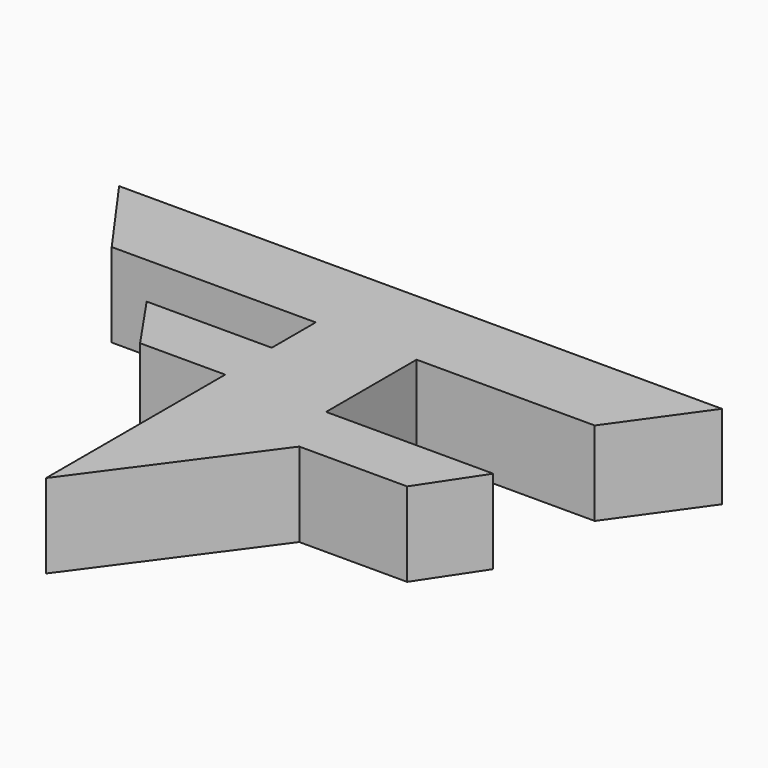
from build123d import *

# Parameters (mm, degrees)
F1_DEPTH = 12.7


with BuildPart() as f1:
    # F0 (on Top) → F1 (new body)
    with BuildSketch(Plane.XY):
        Polygon((48.759662, 54.159728), (-42.306267, 54.159728), (-33.266246, 41.459728), (-2.446738, 41.459728), (-2.446738, 33.161538), (-21.345066, 33.161538), (-15.30465, 24.368381), (-2.446738, 24.368381), (-2.446738, 0), (-2.446738, -9.455727), (15.856527, 15.478381), (22.471367, 15.478381), (32.149471, 15.478381), (38.04643, 24.368381), (12.793262, 24.368381), (12.793262, 41.459728), (39.707991, 41.459728), align=None)
    extrude(amount=F1_DEPTH)


solid = f1.part
